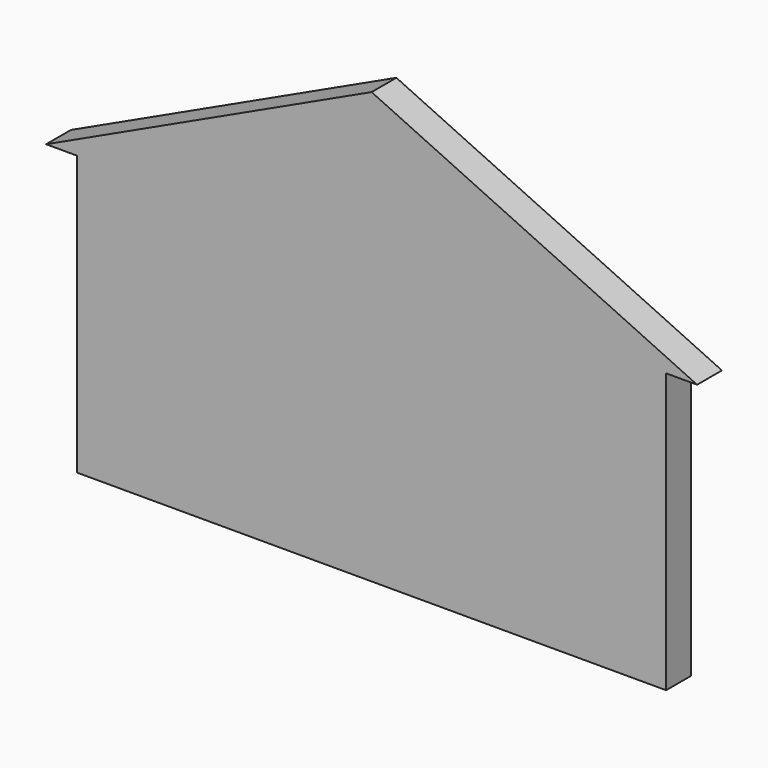
from build123d import *

# Parameters (mm, degrees)
F1_DEPTH = 6.35


with BuildPart() as f1:
    # F0 (on Front) → F1 (new body)
    with BuildSketch(Plane.XZ):
        Polygon((-60.325, -28.575), (60.325, -28.575), (60.325, 28.575), (66.675, 28.575), (0, 59.666063), (-66.675, 28.575), (-60.325, 28.575), align=None)
        Polygon((-60.325, -28.575), (60.325, -28.575), (60.325, 28.575), (66.675, 28.575), (0, 59.666063), (-66.675, 28.575), (-60.325, 28.575), align=None)
    extrude(amount=F1_DEPTH)


solid = f1.part
